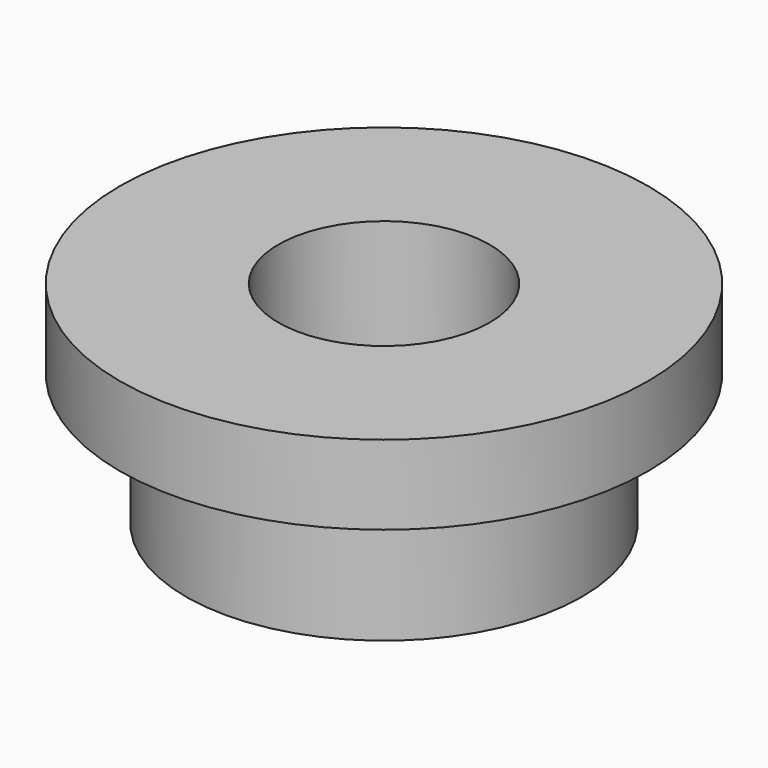
from build123d import *


with BuildPart() as part:
    # Sketch → Revolution (revolve)
    with BuildSketch(Plane.XZ):
        Polygon((4, 0), (4, 8), (10, 8), (10, 5), (7.5, 5), (7.5, 0), align=None)
    revolve(axis=Axis((0, 0, 0), (0, 0, 1)))


solid = part.part
